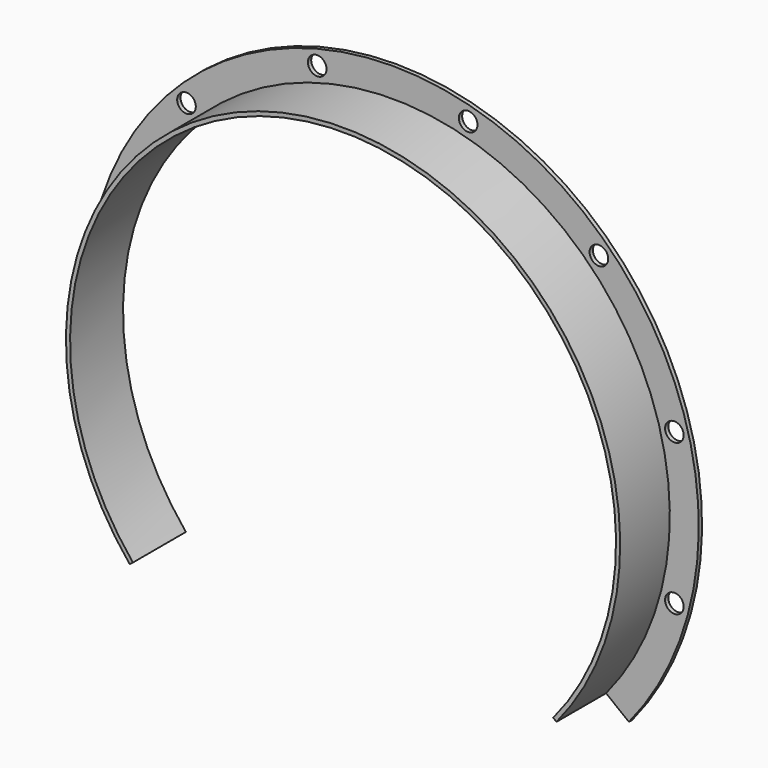
from build123d import *

# Parameters (mm, degrees)
F0_R     = 14.2875
F1_DEPTH = 6.35
F2_DEPTH = 101.6


with BuildPart() as f1:
    # F0 (on Front) → F1 (new body)
    with BuildSketch(Plane.XZ):
        with BuildLine():
            Line((327.579371, -271.476441), (362.607836, -298.86714))
            ThreePointArc((362.607836, -298.86714), (0, 469.9), (-362.607836, -298.86714))
            Line((-362.607836, -298.86714), (-327.579371, -271.476441))
            ThreePointArc((-327.579371, -271.476441), (0, 425.45), (327.579371, -271.476441))
        make_face()
        with Locations((-432.420844, -115.866816)):
            Circle(F0_R, mode=Mode.SUBTRACT)
        with Locations((432.420844, -115.866816)):
            Circle(F0_R, mode=Mode.SUBTRACT)
        with Locations((-432.420844, 115.866816)):
            Circle(F0_R, mode=Mode.SUBTRACT)
        with Locations((-316.554028, 316.554028)):
            Circle(F0_R, mode=Mode.SUBTRACT)
        with Locations((-115.866816, 432.420844)):
            Circle(F0_R, mode=Mode.SUBTRACT)
        with Locations((432.420844, 115.866816)):
            Circle(F0_R, mode=Mode.SUBTRACT)
        with Locations((115.866816, 432.420844)):
            Circle(F0_R, mode=Mode.SUBTRACT)
        with Locations((316.554028, 316.554028)):
            Circle(F0_R, mode=Mode.SUBTRACT)
    extrude(amount=F1_DEPTH)

    # F0 (on Front) → F2 (join)
    with BuildSketch(Plane.XZ):
        with BuildLine():
            Line((322.575083, -267.563312), (327.579371, -271.476441))
            ThreePointArc((327.579371, -271.476441), (0, 425.45), (-327.579371, -271.476441))
            Line((-327.579371, -271.476441), (-322.575083, -267.563312))
            ThreePointArc((-322.575083, -267.563312), (0, 419.1), (322.575083, -267.563312))
        make_face()
    extrude(amount=F2_DEPTH)


solid = f1.part
